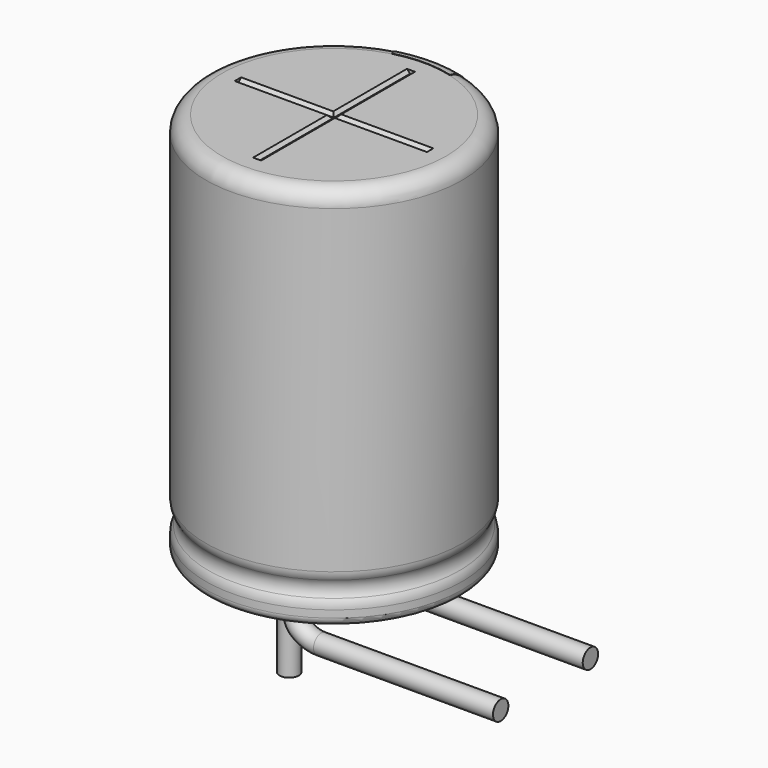
from build123d import *

# Parameters (mm, degrees)
SKETCH010_R         = 0.3
PAD002_DEPTH        = 2.6
REVOLUTION001_ANGLE = -30
SKETCH015_W         = 0.5
SKETCH015_H         = 1
POCKET002_DEPTH     = 4.011
LINEARPATTERN_COUNT = 3
LINEARPATTERN_PITCH = 4.5
SKETCH012_R         = 3.5
POCKET_DEPTH        = 0.5
SKETCH003_R         = 0.3
SKETCH013_R         = 3.5
PAD_DEPTH           = 0.5
POCKET001_DEPTH     = 3
POLARPATTERN_COUNT  = 3
POLARPATTERN_ANGLE  = 180


with BuildPart() as obj1:
    # Sketch010 → Pad002 (new body)
    with BuildSketch(Plane(origin=(0, 1.75, 0), x_dir=(1, 0, 0), z_dir=(0, 0, 1))):
        Circle(SKETCH010_R)
    extrude(amount=-PAD002_DEPTH)


with BuildPart() as obj1_1:
    # Body007 placement: moved
    add(obj1.part.moved(Location((0, -3.5, 0))))


with BuildPart() as polaritymarking:
    # Sketch005 → Revolution001 (revolve)
    with BuildSketch(Plane(origin=(0, 0, 0), x_dir=(-0.258819, 0.965926, 0), z_dir=(0.965926, 0.258819, 0))):
        with BuildLine():
            Line((3.51, 0.25), (3.51, 12.01))
            ThreePointArc((3.51, 12.01), (3.863553, 11.863553), (4.01, 11.51))
            Line((4.01, 11.51), (4.01, 1.523941))
            ThreePointArc((4.01, 1.523941), (3.989134, 1.381006), (3.928278, 1.25))
            ThreePointArc((3.928278, 1.25), (3.853698, 1), (3.928278, 0.75))
            ThreePointArc((3.928278, 0.75), (3.989134, 0.618994), (4.01, 0.476059))
            Line((4.01, 0.476059), (4.01, 0.25))
            ThreePointArc((4.01, 0.25), (3.76, 0), (3.51, 0.25))
        make_face()
    revolve(axis=Axis((0, 0, 0), (0, 0, 1)), revolution_arc=REVOLUTION001_ANGLE)

    # Sketch015 → Pocket002 (cut, through all)
    with BuildSketch(Plane.XZ):
        with Locations((0, 2)):
            Rectangle(SKETCH015_W, SKETCH015_H)
    pocket002 = extrude(amount=-POCKET002_DEPTH, mode=Mode.SUBTRACT)

    # LinearPattern: Pocket002 ×3
    with Locations(*[(0, 0, i * LINEARPATTERN_PITCH) for i in range(1, LINEARPATTERN_COUNT)]):
        add(pocket002, mode=Mode.SUBTRACT)


with BuildPart() as housing:
    # Sketch → Revolution (revolve)
    with BuildSketch(Plane.XZ):
        with BuildLine():
            Line((0, 12), (3.5, 12))
            ThreePointArc((4, 11.5), (3.853553, 11.853553), (3.5, 12))
            Line((4, 11.5), (4, 1.523941))
            ThreePointArc((3.918278, 1.25), (3.979134, 1.381006), (4, 1.523941))
            ThreePointArc((3.918278, 1.25), (3.843698, 1), (3.918278, 0.75))
            ThreePointArc((4, 0.476059), (3.979134, 0.618994), (3.918278, 0.75))
            Line((4, 0.476059), (4, 0.25))
            ThreePointArc((3.75, 0), (3.926777, 0.073223), (4, 0.25))
            Line((0, 0), (3.75, 0))
            Line((0, 12), (0, 0))
        make_face()
    revolve(axis=Axis((0, 0, 0), (0, 0, 1)))

    # Sketch012 → Pocket (cut)
    with BuildSketch(Plane.XY.offset(12)):
        Circle(SKETCH012_R)
    extrude(amount=-POCKET_DEPTH, mode=Mode.SUBTRACT)


with BuildPart() as obj2:
    # AdditivePipe: sweep along a path in Sketch004
    with BuildLine(Plane.XZ) as additivepipe_path:
        Line((0, 0), (0, -0.5))
        ThreePointArc((0, -0.5), (0.292893, -1.207107), (1, -1.5))
        Line((1, -1.5), (6.6, -1.5))
    # Sketch003 (on ShapeBinder) → AdditivePipe (sweep)
    with BuildSketch(Plane(origin=(0, 0, 0), x_dir=(1, 0, 0), z_dir=(0, 0, -1))):
        with Locations((0, 1.75)):
            Circle(SKETCH003_R)
    sweep(path=additivepipe_path.line)


with BuildPart() as obj3:
    # Body003 base: copy of obj2
    add(obj2.part)


with BuildPart() as obj3_1:
    # Body003 placement: moved
    add(obj3.part.moved(Location((0, 3.5, 0))))


with BuildPart() as fusion:
    # Sketch013 (on ShapeBinder) → Pad (new body)
    with BuildSketch(Plane.XY.offset(11.5)):
        Circle(SKETCH013_R)
    extrude(amount=PAD_DEPTH)

    # Sketch014 → Pocket001 (cut, symmetric)
    with BuildSketch(Plane.XZ):
        Polygon((-0.125, 12), (0.125, 12), (0.025, 11.9), (-0.025, 11.9), align=None)
    pocket001 = extrude(amount=POCKET001_DEPTH, both=True, mode=Mode.SUBTRACT)

    # PolarPattern: Pocket001 ×3 about axis
    polarpattern_axis = Axis((0, 0, 0), (0, 0, 1))
    for i in range(1, POLARPATTERN_COUNT):
        add(pocket001.rotate(polarpattern_axis, i * POLARPATTERN_ANGLE / (POLARPATTERN_COUNT - 1)), mode=Mode.SUBTRACT)

    # Fusion: union PolarityMarking, Housing, obj3, obj2
    add(polaritymarking.part)
    add(housing.part)
    add(obj3_1.part)
    add(obj2.part)


solid = Compound([obj1_1.part, fusion.part])
